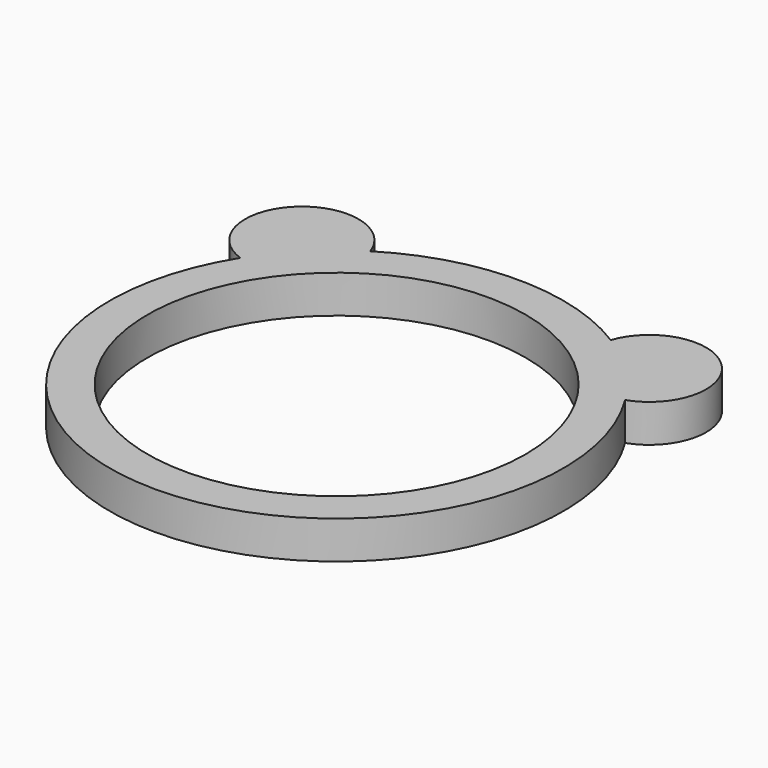
from build123d import *

# Parameters (mm, degrees)
SKETCH_R     = 12
SKETCH_R_2   = 10
PAD_DEPTH    = 2
SKETCH001_R  = 3
PAD001_DEPTH = 2


with BuildPart() as part:
    # Sketch → Pad (new body)
    with BuildSketch(Plane.XY):
        Circle(SKETCH_R)
        Circle(SKETCH_R_2, mode=Mode.SUBTRACT)
    extrude(amount=-PAD_DEPTH)

    # Sketch001 → Pad001 (join)
    with BuildSketch(Plane.XY):
        with Locations((-9.192388, 9.192388)):
            Circle(SKETCH001_R)
        with Locations((9.192388, 9.192388)):
            Circle(SKETCH001_R)
    extrude(amount=-PAD001_DEPTH)


solid = part.part
